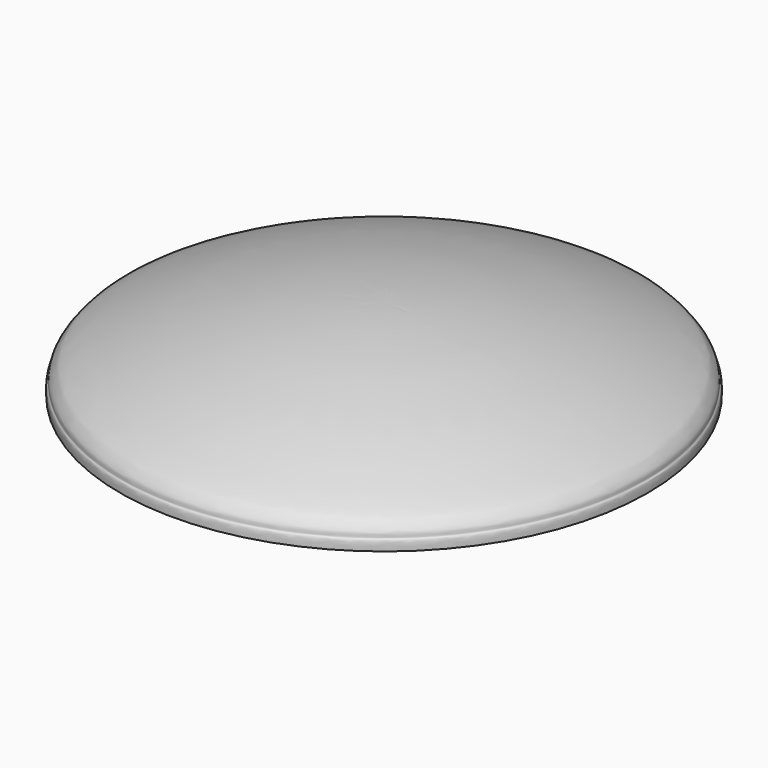
from build123d import *


with BuildPart() as f1:
    # F0 (on Front) → F1 (revolve)
    with BuildSketch(Plane.XZ):
        with BuildLine():
            Line((0, 189.3827915192), (0, 0))
            Line((0, 0), (609.6, 0))
            add(Edge.make_bspline(
                [(0, 189.3827915192), (19.6542116002, 189.4525996727), (61.0973194826, 189.5997979882), (137.6715125775, 182.3541790612), (185.7275121874, 176.4851166652), (249.4080096446, 167.5297744071), (327.9779715694, 148.8222355094), (408.7626206929, 129.2297028385), (479.4653339266, 103.8501123627), (531.2605623593, 85.0720475745), (574.011103419, 65.5491144225), (588.2630490429, 58.005766416), (594.0005058239, 50.9602490486), (599.4147774172, 44.6390529369), (606.5476339251, 34.463695893), (604.7822479693, 24.2029225961), (610.1620269586, 23.0089093457), (609.835963429, 9.6601436332), (609.6, 0)],
                knots=[0, 0, 0, 0, 0.08240202, 0.1737538943, 0.2470487036, 0.3299151047, 0.4247791679, 0.5212306262, 0.61178242, 0.6909652739, 0.7619365576, 0.8027784747, 0.8328892162, 0.8632917698, 0.9002501608, 0.931328314, 0.9503041432, 1, 1, 1, 1], degree=3))
        make_face()
    revolve(axis=Axis((0, 0, 205.976292491), (0, 0, 1)))


solid = f1.part
